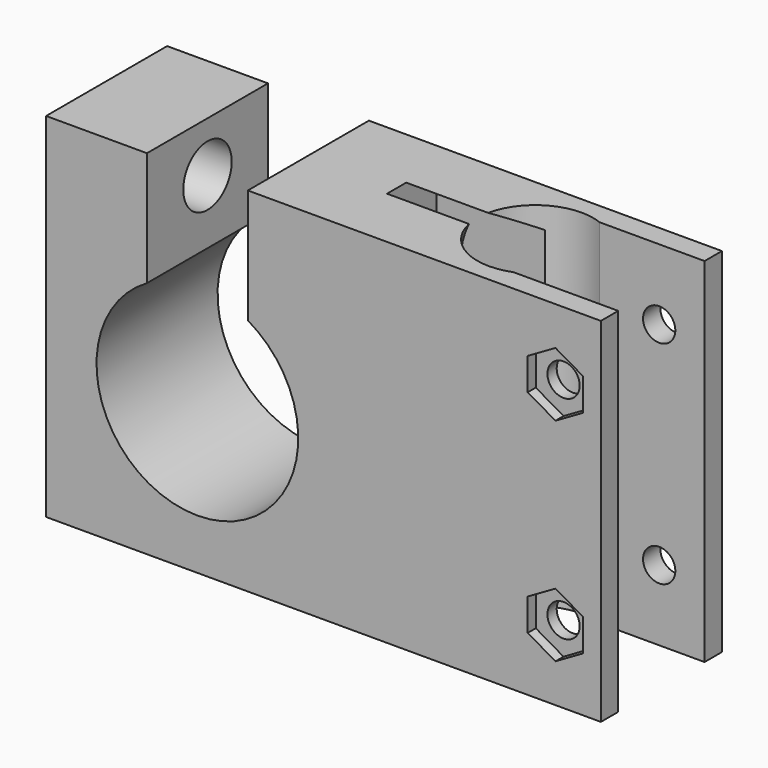
from build123d import *

# Parameters (mm, degrees)
F1_DEPTH  = 35
F3_DEPTH  = 15
F4_D      = 3.2
F5_DEPTH  = 1
F6_R      = 3
F7_DEPTH  = 55.001
F13_DEPTH = 11


with BuildPart() as f1:
    # F0 (on Top) → F1 (new body)
    with BuildSketch(Plane.XY):
        with BuildLine():
            Line((27.5, 5.35), (27.5, 7.5))
            Line((27.5, 7.5), (-27.5, 7.5))
            Line((-27.5, 7.5), (-27.5, -7.5))
            Line((-27.5, -7.5), (27.5, -7.5))
            Line((27.5, -7.5), (27.5, -5.35))
            Line((27.5, -5.35), (17.1071307506, -5.35))
            ThreePointArc((17.1071307506, -5.35), (9.25, 0), (17.1071307506, 5.35))
            Line((17.1071307506, 5.35), (27.5, 5.35))
        make_face()
    extrude(amount=F1_DEPTH)

    # F2 (on face) → F3 (cut, through all)
    with BuildSketch(Plane.XZ.offset(7.5)):
        with BuildLine():
            Line((-17.5, 35), (-17.5, 23.6602540378))
            ThreePointArc((-17.5, 23.6602540378), (-12.5, 5), (-7.5, 23.6602540378))
            Line((-7.5, 23.6602540378), (-7.5, 35))
            Line((-7.5, 35), (-17.5, 35))
        make_face()
    extrude(amount=-F3_DEPTH, mode=Mode.SUBTRACT)

    # F4 (through all)
    with Locations(Plane.XZ.offset(7.5)):
        with Locations((23, 28), (23, 7)):
            Hole(F4_D / 2)

    # F2 (on face) → F5 (cut)
    with BuildSketch(Plane.XZ.offset(7.5)):
        Polygon((25.75, 29.5877132403), (23, 31.1754264805), (20.25, 29.5877132403), (20.25, 26.4122867597), (23, 24.8245735195), (25.75, 26.4122867597), align=None)
        Polygon((25.75, 8.5877132403), (23, 10.1754264805), (20.25, 8.5877132403), (20.25, 5.4122867597), (23, 3.8245735195), (25.75, 5.4122867597), align=None)
    extrude(amount=-F5_DEPTH, mode=Mode.SUBTRACT)

    # F6 (on face) → F7 (cut, through all)
    with BuildSketch(Plane(origin=(-27.5, 0, 0), x_dir=(0, -1, 0), z_dir=(-1, 0, 0))):
        with Locations((0, 30)):
            Circle(F6_R)
    extrude(amount=-F7_DEPTH, mode=Mode.SUBTRACT)

    # F12 (on offset) → F13 (cut)
    with BuildSketch(Plane(origin=(12.25, 0, 0), x_dir=(0, -1, 0), z_dir=(-1, 0, 0))):
        Polygon((0, 35.6869001515), (-4.925, 32.8434500758), (-4.925, 27.1565499242), (0, 24.3130998485), (4.925, 27.1565499242), (4.925, 32.8434500758), align=None)
    extrude(amount=F13_DEPTH, mode=Mode.SUBTRACT)


solid = f1.part
